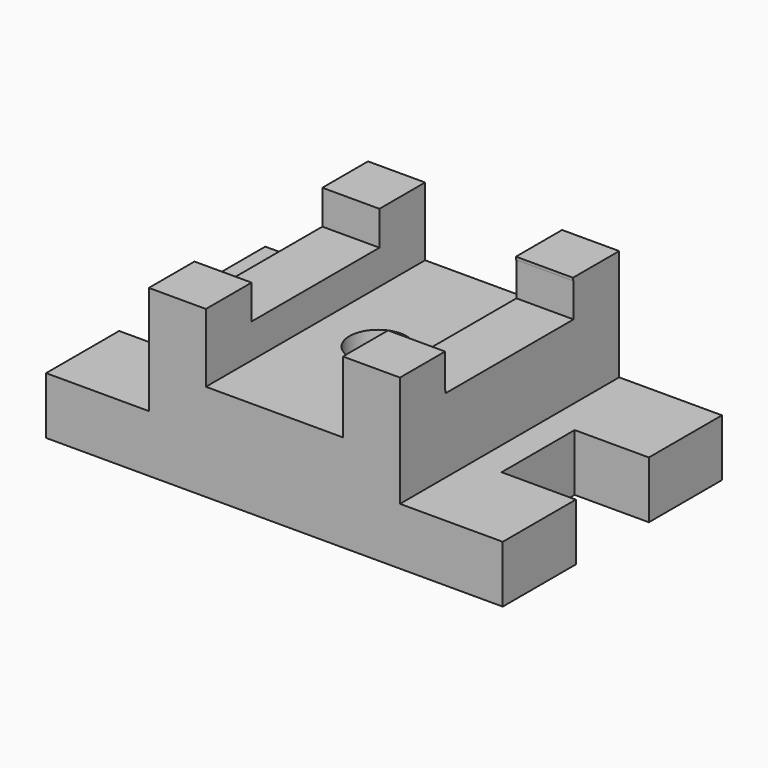
from build123d import *

# Parameters (mm, degrees)
F0_W      = 76.2
F0_H      = 22.225
F1_DEPTH  = 152.4
F2_W      = 31.75
F2_H      = 88.9
F3_DEPTH  = 19.05
F4_W      = 31.75
F4_H      = 88.9
F5_DEPTH  = 19.05
F6_R      = 15.875
F7_DEPTH  = 53.975
F8_W      = 41.275
F8_H      = 50.8
F9_DEPTH  = 31.75
F10_W     = 41.275
F10_H     = 50.8
F11_DEPTH = 31.75


with BuildPart() as f1:
    # F0 (on Front) → F1 (new body)
    with BuildSketch(Plane.XZ):
        Polygon((-70.301185, -6.515433), (-127.451185, -6.515433), (-127.451185, -38.265433), (126.548815, -38.265433), (126.548815, -6.515433), (69.398815, -6.515433), (37.648815, -6.515433), (-38.551185, -6.515433), align=None)
        Polygon((-70.301185, 53.809567), (-70.301185, -6.515433), (-38.551185, -6.515433), (-38.551185, 15.709567), (-38.551185, 53.809567), align=None)
        with Locations((-0.451185, 4.597067)):
            Rectangle(F0_W, F0_H)
        Polygon((37.648815, 15.709567), (37.648815, -6.515433), (69.398815, -6.515433), (69.398815, 55.319522), (37.648815, 55.319522), align=None)
    extrude(amount=F1_DEPTH)

    # F2 (on face) → F3 (cut)
    with BuildSketch(Plane.XY.offset(53.809567)):
        with Locations((-54.426185, -76.2)):
            Rectangle(F2_W, F2_H)
        with Locations((53.523815, -76.2)):
            Rectangle(F2_W, F2_H)
    extrude(amount=-F3_DEPTH, mode=Mode.SUBTRACT)

    # F4 (on face) → F5 (cut)
    with BuildSketch(Plane.XY.offset(55.319522)):
        with Locations((53.523815, -76.567635)):
            Rectangle(F4_W, F4_H)
    extrude(amount=-F5_DEPTH, mode=Mode.SUBTRACT)

    # F6 (on face) → F7 (cut)
    with BuildSketch(Plane.XY.offset(15.709567)):
        with Locations((-3.759871, -76.2)):
            Circle(F6_R)
    extrude(amount=-F7_DEPTH, mode=Mode.SUBTRACT)

    # F8 (on face) → F9 (cut)
    with BuildSketch(Plane.XY.offset(-6.515433)):
        with Locations((-106.813685, -76.2)):
            Rectangle(F8_W, F8_H)
    extrude(amount=-F9_DEPTH, mode=Mode.SUBTRACT)

    # F10 (on face) → F11 (cut)
    with BuildSketch(Plane.XY.offset(-6.515433)):
        with Locations((105.911315, -76.2)):
            Rectangle(F10_W, F10_H)
    extrude(amount=-F11_DEPTH, mode=Mode.SUBTRACT)


solid = f1.part
